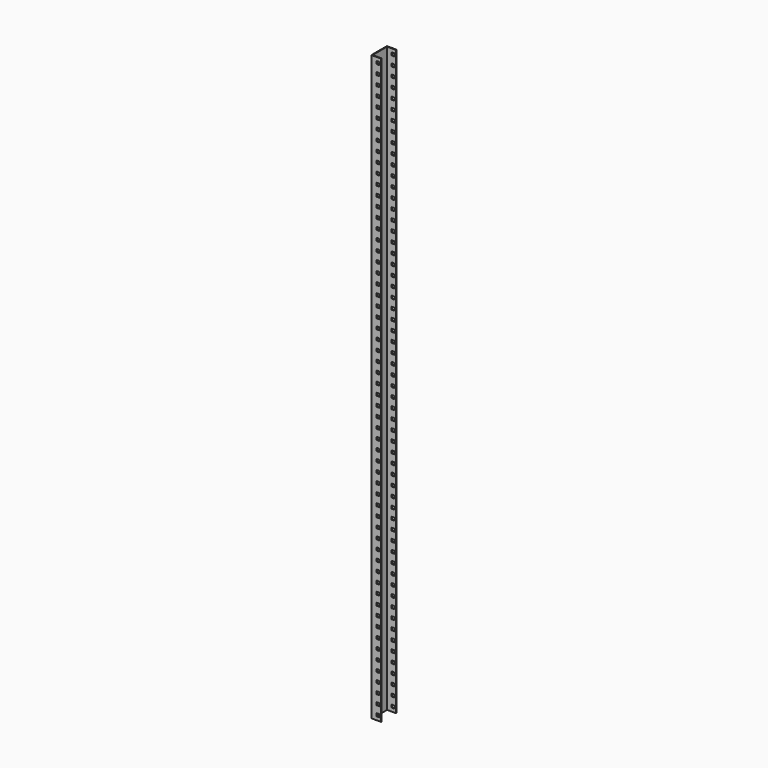
from build123d import *

# Parameters (mm, degrees)
F0_W     = 38.1
F0_H     = 76.2
F1_DEPTH = 1143
F2_T     = -2.778125
F3_W     = 11.1125
F3_H     = 11.1125
F4_DEPTH = 76.201


with BuildPart() as f1:
    # F0 (on Top) → F1 (new body, symmetric)
    with BuildSketch(Plane.XY):
        with Locations((19.05, 38.1)):
            Rectangle(F0_W, F0_H)
    extrude(amount=F1_DEPTH, both=True)

    # F2
    f2_openings = [f1.faces().sort_by_distance(p)[0] for p in [
        (38.1, 38.1, 0),
        (19.05, 38.1, 1143),
        (19.05, 38.1, -1143),
    ]]
    offset(amount=F2_T, openings=f2_openings)

    # F3 (on face) → F4 (cut, through all)
    with BuildSketch(Plane.XZ):
        with Locations((25.4, -1123.95)):
            Rectangle(F3_W, F3_H)
        with Locations((25.4, -1085.85)):
            Rectangle(F3_W, F3_H)
        with Locations((25.4, -1047.75)):
            Rectangle(F3_W, F3_H)
        with Locations((25.4, -1009.65)):
            Rectangle(F3_W, F3_H)
        with Locations((25.4, -971.55)):
            Rectangle(F3_W, F3_H)
        with Locations((25.4, -933.45)):
            Rectangle(F3_W, F3_H)
        with Locations((25.4, -895.35)):
            Rectangle(F3_W, F3_H)
        with Locations((25.4, -857.25)):
            Rectangle(F3_W, F3_H)
        with Locations((25.4, -819.15)):
            Rectangle(F3_W, F3_H)
        with Locations((25.4, -781.05)):
            Rectangle(F3_W, F3_H)
        with Locations((25.4, -742.95)):
            Rectangle(F3_W, F3_H)
        with Locations((25.4, -704.85)):
            Rectangle(F3_W, F3_H)
        with Locations((25.4, -666.75)):
            Rectangle(F3_W, F3_H)
        with Locations((25.4, -628.65)):
            Rectangle(F3_W, F3_H)
        with Locations((25.4, -590.55)):
            Rectangle(F3_W, F3_H)
        with Locations((25.4, -552.45)):
            Rectangle(F3_W, F3_H)
        with Locations((25.4, -514.35)):
            Rectangle(F3_W, F3_H)
        with Locations((25.4, -476.25)):
            Rectangle(F3_W, F3_H)
        with Locations((25.4, -438.15)):
            Rectangle(F3_W, F3_H)
        with Locations((25.4, -400.05)):
            Rectangle(F3_W, F3_H)
        with Locations((25.4, -361.95)):
            Rectangle(F3_W, F3_H)
        with Locations((25.4, -323.85)):
            Rectangle(F3_W, F3_H)
        with Locations((25.4, -285.75)):
            Rectangle(F3_W, F3_H)
        with Locations((25.4, -247.65)):
            Rectangle(F3_W, F3_H)
        with Locations((25.4, -209.55)):
            Rectangle(F3_W, F3_H)
        with Locations((25.4, -171.45)):
            Rectangle(F3_W, F3_H)
        with Locations((25.4, -133.35)):
            Rectangle(F3_W, F3_H)
        with Locations((25.4, -95.25)):
            Rectangle(F3_W, F3_H)
        with Locations((25.4, -57.15)):
            Rectangle(F3_W, F3_H)
        with Locations((25.4, -19.05)):
            Rectangle(F3_W, F3_H)
        with Locations((25.4, 19.05)):
            Rectangle(F3_W, F3_H)
        with Locations((25.4, 57.15)):
            Rectangle(F3_W, F3_H)
        with Locations((25.4, 95.25)):
            Rectangle(F3_W, F3_H)
        with Locations((25.4, 133.35)):
            Rectangle(F3_W, F3_H)
        with Locations((25.4, 171.45)):
            Rectangle(F3_W, F3_H)
        with Locations((25.4, 209.55)):
            Rectangle(F3_W, F3_H)
        with Locations((25.4, 247.65)):
            Rectangle(F3_W, F3_H)
        with Locations((25.4, 285.75)):
            Rectangle(F3_W, F3_H)
        with Locations((25.4, 323.85)):
            Rectangle(F3_W, F3_H)
        with Locations((25.4, 361.95)):
            Rectangle(F3_W, F3_H)
        with Locations((25.4, 400.05)):
            Rectangle(F3_W, F3_H)
        with Locations((25.4, 438.15)):
            Rectangle(F3_W, F3_H)
        with Locations((25.4, 476.25)):
            Rectangle(F3_W, F3_H)
        with Locations((25.4, 514.35)):
            Rectangle(F3_W, F3_H)
        with Locations((25.4, 552.45)):
            Rectangle(F3_W, F3_H)
        with Locations((25.4, 590.55)):
            Rectangle(F3_W, F3_H)
        with Locations((25.4, 628.65)):
            Rectangle(F3_W, F3_H)
        with Locations((25.4, 666.75)):
            Rectangle(F3_W, F3_H)
        with Locations((25.4, 704.85)):
            Rectangle(F3_W, F3_H)
        with Locations((25.4, 742.95)):
            Rectangle(F3_W, F3_H)
        with Locations((25.4, 781.05)):
            Rectangle(F3_W, F3_H)
        with Locations((25.4, 819.15)):
            Rectangle(F3_W, F3_H)
        with Locations((25.4, 857.25)):
            Rectangle(F3_W, F3_H)
        with Locations((25.4, 895.35)):
            Rectangle(F3_W, F3_H)
        with Locations((25.4, 933.45)):
            Rectangle(F3_W, F3_H)
        with Locations((25.4, 971.55)):
            Rectangle(F3_W, F3_H)
        with Locations((25.4, 1009.65)):
            Rectangle(F3_W, F3_H)
        with Locations((25.4, 1047.75)):
            Rectangle(F3_W, F3_H)
        with Locations((25.4, 1085.85)):
            Rectangle(F3_W, F3_H)
        with Locations((25.4, 1123.95)):
            Rectangle(F3_W, F3_H)
    extrude(amount=-F4_DEPTH, mode=Mode.SUBTRACT)


solid = f1.part
